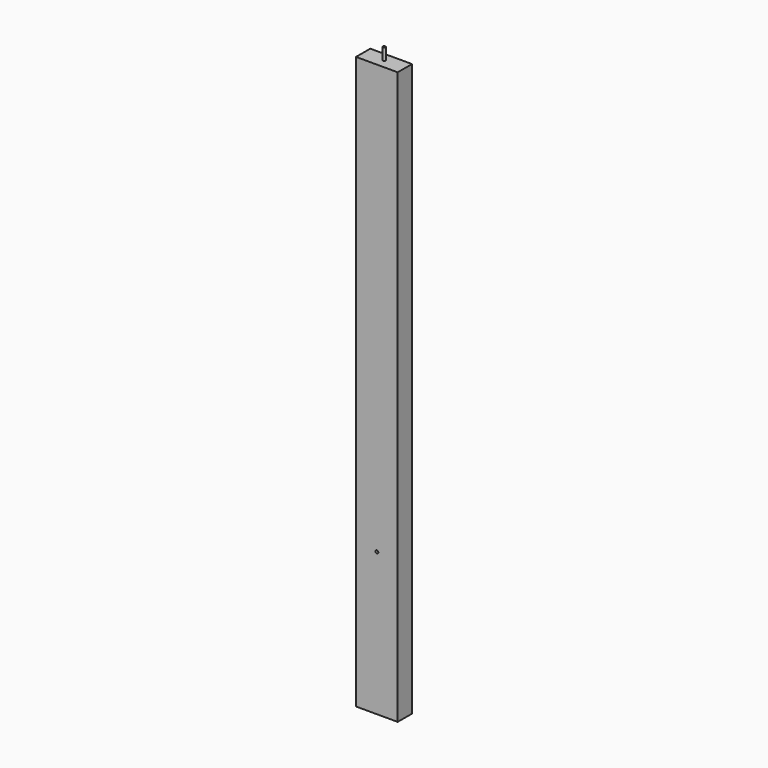
from build123d import *

# Parameters (mm, degrees)
F0_W     = 88.9
F0_H     = 1219.2
F1_DEPTH = 38.1
F3_D     = 6.35
F4_R     = 2.54
F5_DEPTH = 25.4


with BuildPart() as f1:
    # F0 (on Front) → F1 (new body)
    with BuildSketch(Plane.XZ):
        with Locations((-44.45, 609.6)):
            Rectangle(F0_W, F0_H)
    extrude(amount=F1_DEPTH)

    # F3 (through all)
    with Locations(Plane.XZ.offset(38.1)):
        with Locations((-44.45, 304.8)):
            Hole(F3_D / 2)

    # F4 (on face) → F5 (join)
    with BuildSketch(Plane.XY.offset(1219.2)):
        with Locations((-44.45, -18.403284)):
            Circle(F4_R)
    extrude(amount=F5_DEPTH)


solid = f1.part
